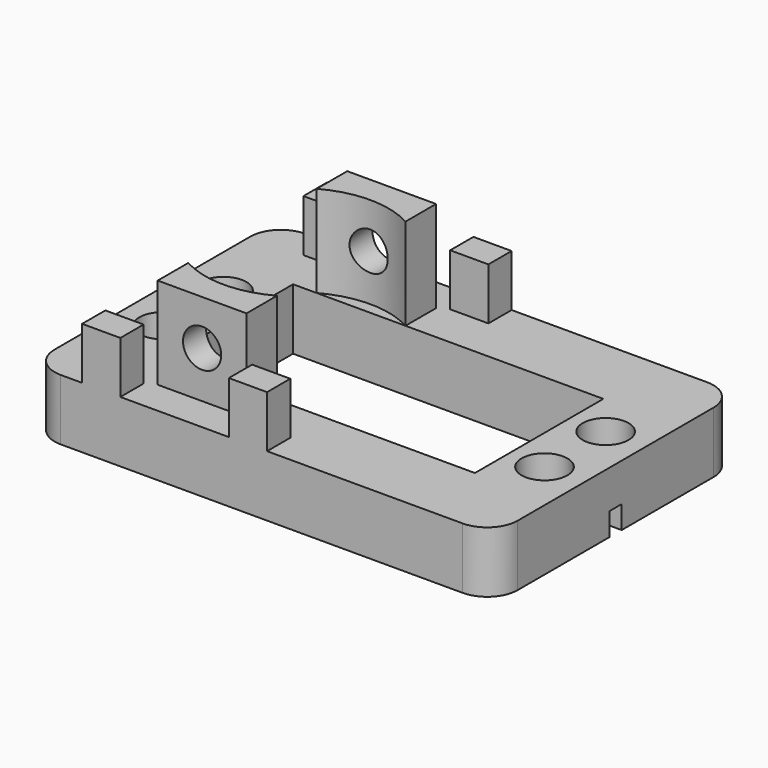
from build123d import *

# Parameters (mm, degrees)
SKETCH_W        = 60.6
SKETCH_H        = 40
SKETCH_R        = 3
SKETCH_W_2      = 40.6
SKETCH_H_2      = 21
PAD_DEPTH       = 10
SKETCH001_W     = 60.6
SKETCH001_H     = 2
POCKET_DEPTH    = 3
PAD001_DEPTH    = 10
SKETCH003_R     = 2.5
POCKET001_DEPTH = 35.501
SKETCH004_W     = 5
SKETCH004_H     = 3.8
PAD002_DEPTH    = 4.8
PAD002_FACE4_R  = 3
POCKET002_DEPTH = 2
POCKET003_DEPTH = 2
POCKET004_DEPTH = 2
FILLET_R        = 4


with BuildPart() as part:
    # Sketch → Pad (new body)
    with BuildSketch(Plane.XY):
        with Locations((11.4, 0)):
            Rectangle(SKETCH_W, SKETCH_H)
        with Locations((-13.6, 5)):
            Circle(SKETCH_R, mode=Mode.SUBTRACT)
        with Locations((-13.6, -5)):
            Circle(SKETCH_R, mode=Mode.SUBTRACT)
        with Locations((36.4, 5)):
            Circle(SKETCH_R, mode=Mode.SUBTRACT)
        with Locations((36.4, -5)):
            Circle(SKETCH_R, mode=Mode.SUBTRACT)
        with Locations((11.4, 0)):
            Rectangle(SKETCH_W_2, SKETCH_H_2, mode=Mode.SUBTRACT)
    extrude(amount=PAD_DEPTH)

    # Sketch001 (on DatumPlane) → Pocket (cut)
    with BuildSketch(Plane.XY):
        with Locations((11.4, 0)):
            Rectangle(SKETCH001_W, SKETCH001_H)
    extrude(amount=POCKET_DEPTH, mode=Mode.SUBTRACT)

    # Sketch002 (on Face5 of Pocket) → Pad001 (join)
    with BuildSketch(Plane.XY.offset(10)):
        with BuildLine():
            Line((-5.809475, 15.5), (5.809475, 15.5))
            Line((5.809475, 15.5), (5.809475, 10.5))
            ThreePointArc((5.809475, 10.5), (0, 12), (-5.809475, 10.5))
            Line((-5.809475, 10.5), (-5.809475, 15.5))
        make_face()
        with BuildLine():
            Line((5.809475, -10.5), (5.809475, -15.5))
            Line((5.809475, -15.5), (-5.809475, -15.5))
            Line((-5.809475, -15.5), (-5.809475, -10.5))
            ThreePointArc((-5.809475, -10.5), (0, -12), (5.809475, -10.5))
        make_face()
    extrude(amount=PAD001_DEPTH)

    # Sketch003 (on Face23 of Pad001) → Pocket001 (cut, through all)
    with BuildSketch(Plane.XZ.offset(15.5)):
        with Locations((0, 14.1)):
            Circle(SKETCH003_R)
    extrude(amount=-POCKET001_DEPTH, mode=Mode.SUBTRACT)

    # Sketch004 (on Face5 of Pocket001) → Pad002 (join)
    with BuildSketch(Plane.XY.offset(10)):
        with Locations((9.6, 18.1)):
            Rectangle(SKETCH004_W, SKETCH004_H)
        with Locations((-9.6, 18.1)):
            Rectangle(SKETCH004_W, SKETCH004_H)
        with Locations((-9.6, -18.1)):
            Rectangle(SKETCH004_W, SKETCH004_H)
        with Locations((9.6, -18.1)):
            Rectangle(SKETCH004_W, SKETCH004_H)
    extrude(amount=PAD002_DEPTH)

    # Pad002 Face4 → Pocket002 (cut)
    with BuildSketch(Plane(origin=(13.130462, 0, 10), x_dir=(0, 1, 0), z_dir=(0, 0, 1))):
        Polygon((20, 25.230462), (20, 32.030462), (-20, 32.030462), (-20, 25.230462), (-16.2, 25.230462), (-16.2, 20.230462), (-20, 20.230462), (-20, 6.030462), (-16.2, 6.030462), (-16.2, 1.030462), (-20, 1.030462), (-20, -28.569538), (20, -28.569538), (20, 1.030462), (16.2, 1.030462), (16.2, 6.030462), (20, 6.030462), (20, 20.230462), (16.2, 20.230462), (16.2, 25.230462), align=None)
        with Locations((-5, 26.730462)):
            Circle(PAD002_FACE4_R, mode=Mode.SUBTRACT)
        with Locations((-5, -23.269538)):
            Circle(PAD002_FACE4_R, mode=Mode.SUBTRACT)
        with Locations((5, 26.730462)):
            Circle(PAD002_FACE4_R, mode=Mode.SUBTRACT)
        Polygon((-10.5, 22.030462), (10.5, 22.030462), (10.5, 18.939937), (15.5, 18.939937), (15.5, 7.320987), (10.5, 7.320987), (10.5, -18.569538), (-10.5, -18.569538), (-10.5, 7.320987), (-15.5, 7.320987), (-15.5, 18.939937), (-10.5, 18.939937), align=None, mode=Mode.SUBTRACT)
        with Locations((5, -23.269538)):
            Circle(PAD002_FACE4_R, mode=Mode.SUBTRACT)
    extrude(amount=-POCKET002_DEPTH, mode=Mode.SUBTRACT)

    # Pocket002 Face25 → Pocket003 (cut)
    with BuildSketch(Plane(origin=(0, 11.103335, 10), x_dir=(0, 1, 0), z_dir=(0, 0, 1))):
        with BuildLine():
            ThreePointArc((-0.603335, -5.809475), (0.896665, 0), (-0.603335, 5.809475))
            Line((-0.603335, 5.809475), (-0.603335, -5.809475))
        make_face()
    extrude(amount=-POCKET003_DEPTH, mode=Mode.SUBTRACT)

    # Pocket003 Face45 → Pocket004 (cut)
    with BuildSketch(Plane(origin=(0, -11.103335, 10), x_dir=(0, 1, 0), z_dir=(0, 0, 1))):
        with BuildLine():
            Line((0.603335, -5.809475), (0.603335, 5.809475))
            ThreePointArc((0.603335, 5.809475), (-0.896665, 0), (0.603335, -5.809475))
        make_face()
    extrude(amount=-POCKET004_DEPTH, mode=Mode.SUBTRACT)

    # Fillet
    fillet_edges = [part.edges().sort_by_distance(p)[0] for p in [
        (-18.9, -20, 4),
        (-18.9, 20, 4),
        (41.7, -20, 4),
        (41.7, 20, 4),
    ]]
    fillet(fillet_edges, radius=FILLET_R)


solid = part.part
